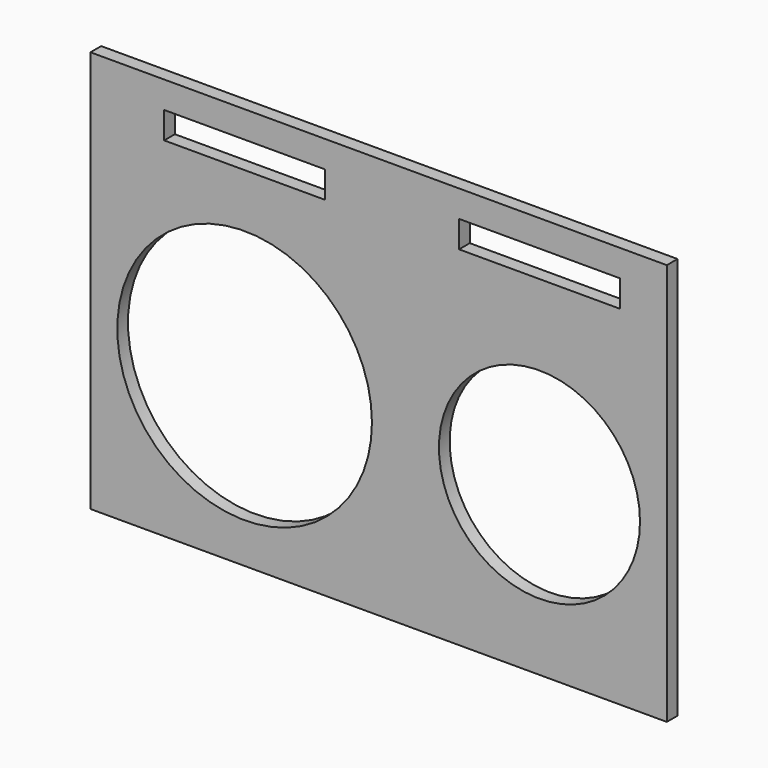
from build123d import *

# Parameters (mm, degrees)
F0_W     = 546.1
F0_H     = 381
F0_R     = 120.65
F0_R_2   = 95.25
F0_W_2   = 152.4
F0_H_2   = 25.4
F1_DEPTH = 12.7


with BuildPart() as f1:
    # F0 (on Front) → F1 (new body)
    with BuildSketch(Plane.XZ):
        with Locations((7.589293, 31.75)):
            Rectangle(F0_W, F0_H)
        with Locations((-119.410707, 0)):
            Circle(F0_R, mode=Mode.SUBTRACT)
        with Locations((159.989293, 0)):
            Circle(F0_R_2, mode=Mode.SUBTRACT)
        with Locations((-119.410707, 184.15)):
            Rectangle(F0_W_2, F0_H_2, mode=Mode.SUBTRACT)
        with Locations((159.989293, 184.15)):
            Rectangle(F0_W_2, F0_H_2, mode=Mode.SUBTRACT)
    extrude(amount=-F1_DEPTH)


solid = f1.part
